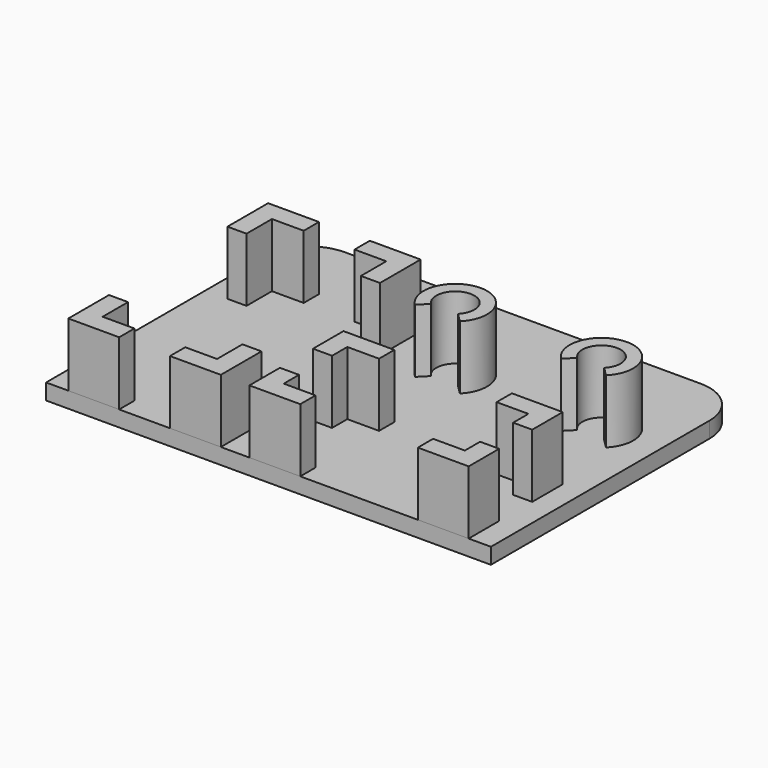
from build123d import *

# Parameters (mm, degrees)
SKETCH001_W  = 70
SKETCH001_H  = 50
PAD_DEPTH    = 2.5
FILLET_R     = 7
PAD003_DEPTH = 10
FILLET001_R  = 7
PAD004_DEPTH = 10
FILLET002_R  = 7
PAD006_DEPTH = 10
FILLET003_R  = 7


with BuildPart() as baseplate:
    # Sketch001 → Pad (new body)
    with BuildSketch(Plane.XY):
        with Locations((0, 25)):
            Rectangle(SKETCH001_W, SKETCH001_H)
    extrude(amount=PAD_DEPTH)


with BuildPart() as fillet_body:
    # Fillet base: copy of BasePlate
    add(baseplate.part)

    # Fillet
    fillet_edges = [fillet_body.edges().sort_by_distance(p)[0] for p in [
        (35, 50, 1.25),
        (-35, 50, 1.25),
    ]]
    fillet(fillet_edges, radius=FILLET_R)


with BuildPart() as fillet001:
    # Pad003 base: copy of BasePlate
    add(baseplate.part)

    # Sketch006 (on Face6 of Pad) → Pad003 (new body)
    with BuildSketch(Plane.XY.offset(2.5)):
        Polygon((23.5, 18.5), (31.5, 18.5), (31.5, 12.5), (28.5, 12.5), (28.5, 15.5), (23.5, 15.5), align=None)
        Polygon((5, 18.5), (-3, 18.5), (-3, 12.5), (0, 12.5), (0, 15.5), (5, 15.5), align=None)
        Polygon((5, 0), (-3, 0), (-3, 6), (0, 6), (0, 3), (5, 3), align=None)
        Polygon((23.5, 0), (31.5, 0), (31.5, 6), (28.5, 6), (28.5, 3), (23.5, 3), align=None)
    extrude(amount=PAD003_DEPTH)

    # Fillet001
    fillet001_edges = [fillet001.edges().sort_by_distance(p)[0] for p in [
        (-35, 50, 1.25),
        (35, 50, 1.25),
    ]]
    fillet(fillet001_edges, radius=FILLET001_R)


with BuildPart() as fillet002:
    # Pad004 base: copy of BasePlate
    add(baseplate.part)

    # Sketch008 (on Face6 of Pad) → Pad004 (new body)
    with BuildSketch(Plane.XY.offset(2.5)):
        Polygon((-15.5, 39.3), (-7.5, 39.3), (-7.5, 31.3), (-10.5, 31.3), (-10.5, 36.3), (-15.5, 36.3), align=None)
        Polygon((-23.5, 39.3), (-31.5, 39.3), (-31.5, 31.3), (-28.5, 31.3), (-28.5, 36.3), (-23.5, 36.3), align=None)
        Polygon((-23.5, 0), (-31.5, 0), (-31.5, 8), (-28.5, 8), (-28.5, 3), (-23.5, 3), align=None)
        Polygon((-15.5, 0), (-7.5, 0), (-7.5, 8), (-10.5, 8), (-10.5, 3), (-15.5, 3), align=None)
    extrude(amount=PAD004_DEPTH)

    # Fillet002
    fillet002_edges = [fillet002.edges().sort_by_distance(p)[0] for p in [
        (35, 50, 1.25),
        (-35, 50, 1.25),
    ]]
    fillet(fillet002_edges, radius=FILLET002_R)


with BuildPart() as fillet003:
    # Pad006 base: copy of BasePlate
    add(baseplate.part)

    # Sketch010 (on Face6 of Pad) → Pad006 (new body)
    with BuildSketch(Plane.XY.offset(2.5)):
        with BuildLine():
            ThreePointArc((5.12132, 30.87868), (3, 36), (0.87868, 30.87868))
            Line((-0.535534, 29.464466), (0.87868, 30.87868))
            ThreePointArc((6.535534, 29.464466), (3, 38), (-0.535534, 29.464466))
            Line((5.12132, 30.87868), (6.535534, 29.464466))
        make_face()
        with BuildLine():
            ThreePointArc((28.12132, 30.87868), (26, 36), (23.87868, 30.87868))
            Line((22.464466, 29.464466), (23.87868, 30.87868))
            ThreePointArc((29.535534, 29.464466), (26, 38), (22.464466, 29.464466))
            Line((28.12132, 30.87868), (29.535534, 29.464466))
        make_face()
    extrude(amount=PAD006_DEPTH)

    # Fillet003
    fillet003_edges = [fillet003.edges().sort_by_distance(p)[0] for p in [
        (-35, 50, 1.25),
        (35, 50, 1.25),
    ]]
    fillet(fillet003_edges, radius=FILLET003_R)


solid = Compound([fillet_body.part, fillet001.part, fillet002.part, fillet003.part])
